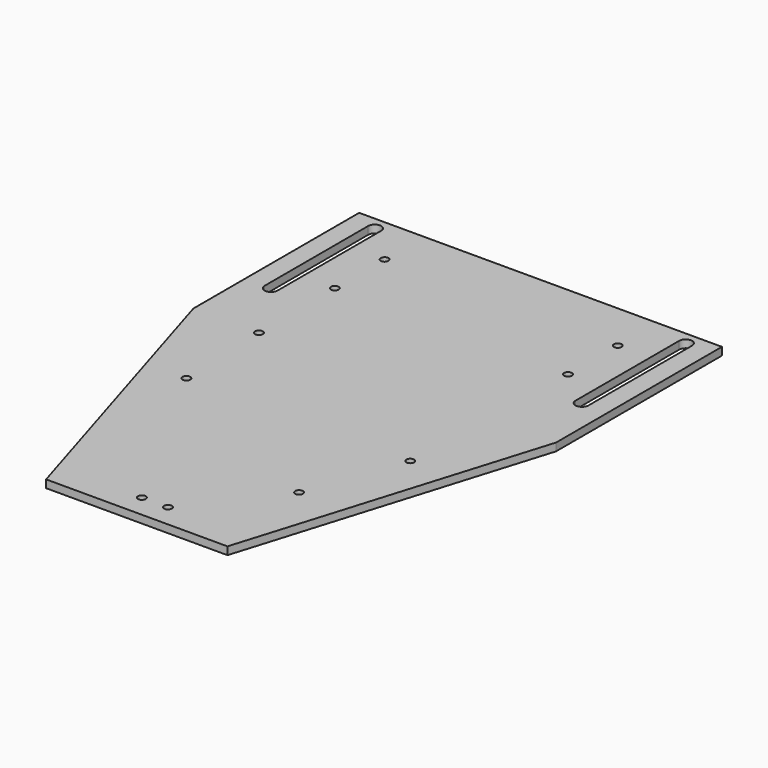
from build123d import *

# Parameters (mm, degrees)
F0_W      = 70
F0_H      = 80
F1_DEPTH  = 3
F3_D      = 3
F7_DEPTH  = 3
F9_D      = 3
F11_D     = 3
F12_DEPTH = 25
F15_D     = 3
F17_D     = 3


with BuildPart() as f1:
    # F0 (on Top) → F1 (new body)
    with BuildSketch(Plane.XY):
        with Locations((35, 40)):
            Rectangle(F0_W, F0_H)
    extrude(amount=F1_DEPTH)

    # F3 (through all)
    with Locations(Plane.XY.offset(3)):
        with Locations((45, 61), (45, 37)):
            Hole(F3_D / 2)

    # F6 (on face) → F7 (join)
    with BuildSketch(Plane.XY.offset(3)):
        Polygon((35, -114.782403), (70, 0), (0, 0), (0, -114.782403), align=None)
    extrude(amount=-F7_DEPTH)

    # F9 (through all)
    with Locations(Plane.XY.offset(3)):
        with Locations((-41.79904, -36.838889), (43.20096, -36.838889)):
            Hole(F9_D / 2)

    # F11 (through all)
    with Locations(Plane.XY.offset(3)):
        with Locations((-13.970835, -106.033295), (5.029165, -106.033295)):
            Hole(F11_D / 2)

    # F5 (on face) → F12 (cut)
    with BuildSketch(Plane.XY.offset(3)):
        with BuildLine():
            ThreePointArc((62.5, 75), (60, 77.5), (57.5, 75))
            Line((57.5, 75), (57.5, 25))
            ThreePointArc((57.5, 25), (60, 22.5), (62.5, 25))
            Line((62.5, 25), (62.5, 75))
        make_face()
    extrude(amount=-F12_DEPTH, mode=Mode.SUBTRACT)

    # F14: F1 across plane


with BuildPart() as f1_1:
    add(f1.part)
    add(f1.part.mirror(Plane.YZ))

    # F15 (through all)
    with Locations(Plane.XY.offset(3)):
        with Locations((29.87123, -73.830966)):
            Hole(F15_D / 2)

    # F17 (through all)
    with Locations(Plane.XY.offset(3)):
        with Locations((-44.679251, 0)):
            Hole(F17_D / 2)


solid = f1_1.part
